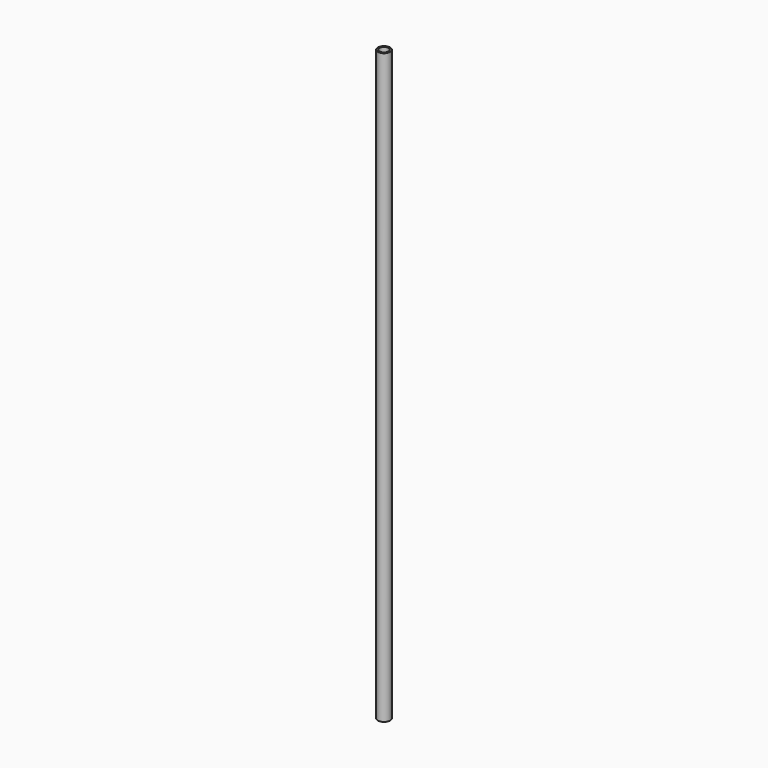
from build123d import *

# Parameters (mm, degrees)
F0_R     = 4.7625
F0_R_2   = 3.5179
F1_DEPTH = 457.2


with BuildPart() as f1:
    # F0 (on Top) → F1 (new body)
    with BuildSketch(Plane.XY):
        with Locations((0, -304.8)):
            Circle(F0_R)
        with Locations((0, -304.8)):
            Circle(F0_R_2, mode=Mode.SUBTRACT)
    extrude(amount=-F1_DEPTH)


solid = f1.part
